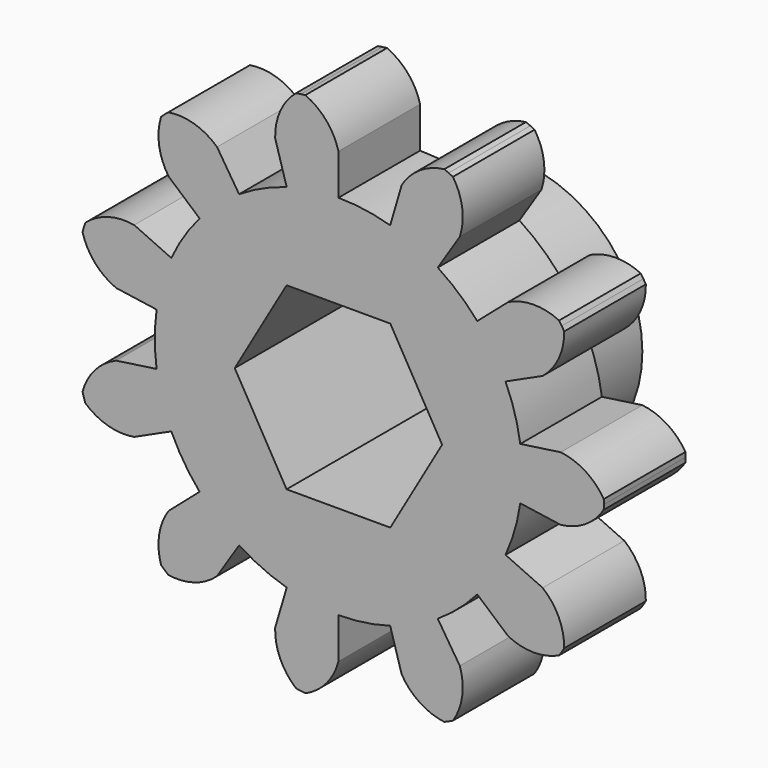
from build123d import *

# Parameters (mm, degrees)
F1_DEPTH = 6.35
F2_R     = 7.9375
F3_DEPTH = 7.366
F5_DEPTH = 25.4
F6_DEPTH = 25.4


with BuildPart() as f1:
    # F0 (on Front) → F1 (new body)
    with BuildSketch(Plane.XZ):
        with BuildLine():
            Line((-3.934953, 13.404367), (-3.219507, 10.967209))
            ThreePointArc((-3.219507, 10.967209), (-4.747864, 10.397244), (-6.179525, 9.615528))
            Line((-6.179525, 9.615528), (-7.552752, 11.752312))
            ThreePointArc((-7.552752, 11.752312), (-8.964411, 12.560176), (-10.587279, 12.66845))
            Line((-10.587279, 12.66845), (-10.813072, 12.47975))
            Line((-10.813072, 12.47975), (-11.031997, 12.283124))
            ThreePointArc((-11.031997, 12.283124), (-11.155886, 10.661374), (-10.557241, 9.149075))
            Line((-10.557241, 9.149075), (-8.637743, 7.485606))
            ThreePointArc((-8.637743, 7.485606), (-9.615332, 6.17983), (-10.397094, 4.748194))
            Line((-10.397094, 4.748194), (-12.707559, 5.803348))
            ThreePointArc((-12.707559, 5.803348), (-14.331886, 5.719766), (-15.755667, 4.933463))
            Line((-15.755667, 4.933463), (-15.843597, 4.652646))
            Line((-15.843597, 4.652646), (-15.921465, 4.368874))
            ThreePointArc((-15.921465, 4.368874), (-15.148902, 2.937591), (-13.827679, 1.989016))
            Line((-13.827679, 1.989016), (-11.313556, 1.627377))
            ThreePointArc((-11.313556, 1.627377), (-11.43, 0.000363), (-11.313659, -1.626659))
            Line((-11.313659, -1.626659), (-13.827806, -1.988138))
            ThreePointArc((-13.827806, -1.988138), (-15.149089, -2.936629), (-15.921742, -4.367864))
            Line((-15.921742, -4.367864), (-15.843893, -4.65164))
            Line((-15.843893, -4.65164), (-15.75598, -4.932463))
            ThreePointArc((-15.75598, -4.932463), (-14.332249, -5.718857), (-12.707927, -5.802541))
            Line((-12.707927, -5.802541), (-10.397395, -4.747534))
            ThreePointArc((-10.397395, -4.747534), (-9.615724, -6.179219), (-8.638218, -7.485058))
            Line((-8.638218, -7.485058), (-10.557822, -9.148404))
            ThreePointArc((-10.557822, -9.148404), (-11.156563, -10.660665), (-11.032776, -12.282424))
            Line((-11.032776, -12.282424), (-10.813864, -12.479064))
            Line((-10.813864, -12.479064), (-10.588083, -12.667778))
            ThreePointArc((-10.588083, -12.667778), (-8.965208, -12.559607), (-7.553498, -11.751832))
            Line((-7.553498, -11.751832), (-6.180135, -9.615136))
            ThreePointArc((-6.180135, -9.615136), (-4.748524, -10.396943), (-3.220203, -10.967005))
            Line((-3.220203, -10.967005), (-3.935804, -13.404117))
            ThreePointArc((-3.935804, -13.404117), (-3.621907, -15.000016), (-2.640982, -16.297402))
            Line((-2.640982, -16.297402), (-2.35051, -16.344473))
            Line((-2.35051, -16.344473), (-2.058545, -16.381163))
            ThreePointArc((-2.058545, -16.381163), (-0.751777, -15.412771), (-0.000887, -13.97))
            Line((-0.000887, -13.97), (-0.000725, -11.43))
            ThreePointArc((-0.000725, -11.43), (1.6263, -11.313711), (3.220203, -10.967005))
            Line((3.220203, -10.967005), (3.935804, -13.404117))
            ThreePointArc((3.935804, -13.404117), (5.062679, -14.576967), (6.589305, -15.13807))
            Line((6.589305, -15.13807), (6.859114, -15.020627))
            Line((6.859114, -15.020627), (7.124567, -14.893644))
            ThreePointArc((7.124567, -14.893644), (7.700339, -13.372489), (7.552006, -11.752791))
            Line((7.552006, -11.752791), (6.178914, -9.61592))
            ThreePointArc((6.178914, -9.61592), (7.484784, -8.638455), (8.638218, -7.485058))
            Line((8.638218, -7.485058), (10.557822, -9.148404))
            ThreePointArc((10.557822, -9.148404), (12.1399, -9.525834), (13.727535, -9.172507))
            Line((13.727535, -9.172507), (13.891018, -8.927838))
            Line((13.891018, -8.927838), (14.045679, -8.677499))
            ThreePointArc((14.045679, -8.677499), (13.707651, -7.086537), (12.707191, -5.804154))
            Line((12.707191, -5.804154), (10.396792, -4.748853))
            ThreePointArc((10.396792, -4.748853), (10.966902, -3.220551), (11.313659, -1.626659))
            Line((11.313659, -1.626659), (13.827806, -1.988138))
            ThreePointArc((13.827806, -1.988138), (15.362788, -1.450316), (16.507369, -0.294739))
            Line((16.507369, -0.294739), (16.512622, -0.000524))
            Line((16.512622, -0.000524), (16.507388, 0.293691))
            ThreePointArc((16.507388, 0.293691), (15.36288, 1.449341), (13.827932, 1.987261))
            Line((13.827932, 1.987261), (11.313762, 1.625941))
            ThreePointArc((11.313762, 1.625941), (10.967107, 3.219855), (10.397094, 4.748194))
            Line((10.397094, 4.748194), (12.707559, 5.803348))
            ThreePointArc((12.707559, 5.803348), (13.7081, 7.085667), (14.04623, 8.676607))
            Line((14.04623, 8.676607), (13.891585, 8.926957))
            Line((13.891585, 8.926957), (13.728117, 9.171636))
            ThreePointArc((13.728117, 9.171636), (12.140504, 9.525064), (10.558402, 9.147734))
            Line((10.558402, 9.147734), (8.638693, 7.48451))
            ThreePointArc((8.638693, 7.48451), (7.485332, 8.63798), (6.179525, 9.615528))
            Line((6.179525, 9.615528), (7.552752, 11.752312))
            ThreePointArc((7.552752, 11.752312), (7.701187, 13.372001), (7.125513, 14.893192))
            Line((7.125513, 14.893192), (6.860068, 15.020192))
            Line((6.860068, 15.020192), (6.590266, 15.137652))
            ThreePointArc((6.590266, 15.137652), (5.063604, 14.576646), (3.936655, 13.403867))
            Line((3.936655, 13.403867), (3.220899, 10.9668))
            ThreePointArc((3.220899, 10.9668), (1.627018, 11.313607), (0, 11.43))
            Line((0, 11.43), (0, 13.97))
            ThreePointArc((0, 13.97), (-0.750798, 15.412819), (-2.057505, 16.381293))
            Line((-2.057505, 16.381293), (-2.349472, 16.344622))
            Line((-2.349472, 16.344622), (-2.639948, 16.29757))
            ThreePointArc((-2.639948, 16.29757), (-3.620955, 15.000246), (-3.934953, 13.404367))
        make_face()
    extrude(amount=F1_DEPTH)

    # F2 (on Front) → F3 (join)
    with BuildSketch(Plane.XZ):
        Circle(F2_R)
    extrude(amount=-F3_DEPTH)

    # F4 (on Front) → F5 (cut)
    with BuildSketch(Plane.XZ):
        Polygon((3.226233, -5.588), (6.452467, 0), (3.226233, 5.588), (-3.226233, 5.588), (-6.452467, 0), (-3.226233, -5.588), align=None)
    extrude(amount=-F5_DEPTH, mode=Mode.SUBTRACT)

    # F5_face (on face) → F6 (cut)
    with BuildSketch(Plane(origin=(0, 0, 0), x_dir=(1, 0, 0), z_dir=(0, 1, 0))):
        Polygon((6.452467, 0), (3.226233, 5.588), (-3.226233, 5.588), (-6.452467, 0), (-3.226233, -5.588), (3.226233, -5.588), align=None)
    extrude(amount=-F6_DEPTH, mode=Mode.SUBTRACT)


solid = f1.part
